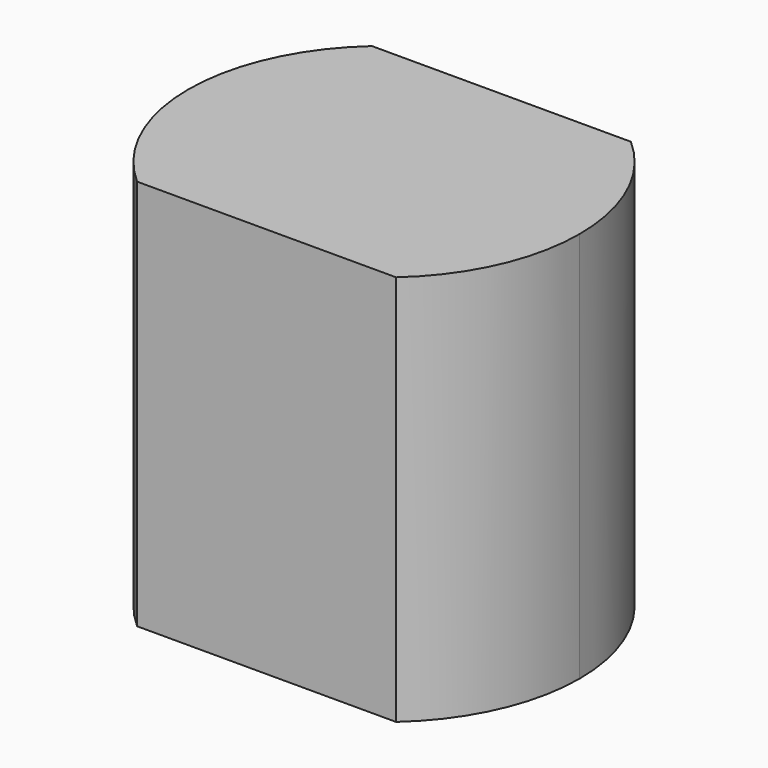
from build123d import *

# Parameters (mm, degrees)
F1_DEPTH = 20


with BuildPart() as f1:
    # F0 (on Top) → F1 (new body)
    with BuildSketch(Plane.XY):
        with BuildLine():
            ThreePointArc((6.614378, -7.5), (9.114378, -4.114378), (10, 0))
            ThreePointArc((10, 0), (9.114378, 4.114378), (6.614378, 7.5))
            Line((6.614378, 7.5), (-6.614378, 7.5))
            ThreePointArc((-6.614378, 7.5), (-10, 0), (-6.614378, -7.5))
            Line((-6.614378, -7.5), (6.614378, -7.5))
        make_face()
    extrude(amount=F1_DEPTH)


solid = f1.part
